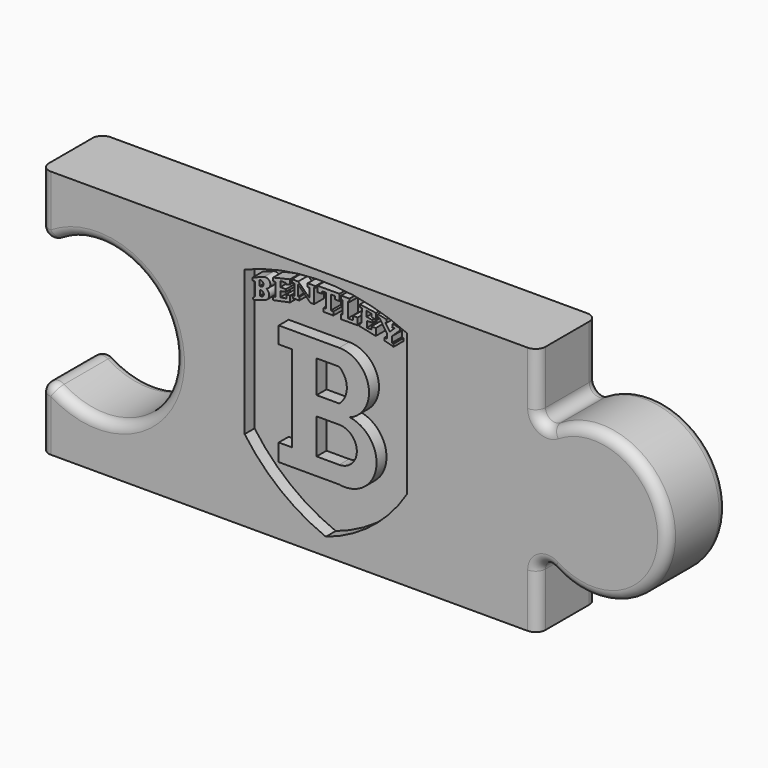
from build123d import *

# Parameters (mm, degrees)
F1_DEPTH = 38.1
F3_W     = 126.102865
F3_H     = 115.093618
F4_DEPTH = 31.75
F6_DEPTH = 6.35
F7_R     = 5.08
F8_R     = 5.08


with BuildPart() as f1:
    # F0 (on Front) → F1 (new body)
    with BuildSketch(Plane.XZ):
        with BuildLine():
            Line((463.192274, -174.77218), (209.192274, -174.77218))
            Line((209.192274, -174.77218), (209.192274, -211.85618))
            ThreePointArc((209.192274, -211.85618), (277.52273, -238.52618), (209.192274, -265.19618))
            Line((209.192274, -265.19618), (209.192274, -302.28018))
            Line((209.192274, -302.28018), (463.192274, -302.28018))
            Line((463.192274, -302.28018), (463.192274, -263.92618))
            ThreePointArc((463.192274, -263.92618), (529.690338, -238.52618), (463.192274, -213.12618))
            Line((463.192274, -213.12618), (463.192274, -174.77218))
        make_face()
        with BuildLine():
            Line((313.375966, -260.759609), (313.375966, -186.65828))
            ThreePointArc((313.375966, -186.65828), (355.063778, -178.968361), (396.411865, -188.314172))
            Line((396.411865, -188.314172), (396.411865, -260.759609))
            ThreePointArc((396.411865, -260.759609), (378.578901, -280.826187), (354.893916, -293.463575))
            ThreePointArc((354.893916, -293.463575), (331.775619, -280.10677), (313.375966, -260.759609))
        make_face(mode=Mode.SUBTRACT)
    extrude(amount=F1_DEPTH)

    # F3 (on face) → F4 (join)
    with BuildSketch(Plane.XZ):
        with Locations((346.876324, -236.12158)):
            Rectangle(F3_W, F3_H)
    extrude(amount=F4_DEPTH)

    # F5 (on face) → F6 (join)
    with BuildSketch(Plane.XZ.offset(31.75)):
        with BuildLine():
            Line((361.730725, -206.16582), (330.822527, -206.16582))
            Line((330.822527, -206.16582), (330.822527, -214.678064))
            Line((330.822527, -214.678064), (337.542742, -214.678064))
            Line((337.542742, -214.678064), (337.542742, -258.849293))
            Line((337.542742, -258.849293), (330.822527, -258.849293))
            Line((330.822527, -258.849293), (330.822527, -267.706871))
            Line((330.822527, -267.706871), (361.730725, -267.706871))
            ThreePointArc((361.730725, -267.706871), (380.620955, -254.446567), (367.181569, -235.683322))
            ThreePointArc((367.181569, -235.683322), (376.739011, -218.656358), (361.730725, -206.16582))
        make_face()
        with BuildLine():
            Line((350.147754, -258.849293), (350.147754, -240.793452))
            Line((350.147754, -240.793452), (361.730725, -240.793452))
            ThreePointArc((361.730725, -240.793452), (370.758645, -249.821372), (361.730725, -258.849293))
            Line((361.730725, -258.849293), (350.147754, -258.849293))
        make_face(mode=Mode.SUBTRACT)
        with BuildLine():
            Line((350.147754, -231.254533), (350.147754, -214.678064))
            Line((350.147754, -214.678064), (361.730725, -214.678064))
            ThreePointArc((361.730725, -214.678064), (365.654232, -222.966298), (361.730725, -231.254533))
            Line((361.730725, -231.254533), (350.147754, -231.254533))
        make_face(mode=Mode.SUBTRACT)
        with BuildLine():
            Line((323.194981, -186.804071), (317.461759, -188.922867))
            Line((317.461759, -188.922867), (317.461759, -190.293849))
            Line((317.461759, -190.293849), (318.708122, -190.293849))
            Line((318.708122, -190.293849), (318.708122, -197.024122))
            Line((318.708122, -197.024122), (317.461759, -198.145837))
            Line((317.461759, -198.145837), (318.137264, -198.896406))
            Line((318.137264, -198.896406), (323.818147, -197.024122))
            ThreePointArc((323.818147, -197.024122), (325.885852, -194.481716), (324.441314, -191.540197))
            ThreePointArc((324.441314, -191.540197), (326.426971, -188.48561), (323.194981, -186.804071))
        make_face()
        with BuildLine():
            Line((321.26677, -195.837215), (321.26677, -193.409994))
            ThreePointArc((321.26677, -193.409994), (323.175692, -194.623604), (321.26677, -195.837215))
        make_face(mode=Mode.SUBTRACT)
        with BuildLine():
            Line((321.090877, -191.545621), (321.090877, -188.90734))
            ThreePointArc((321.090877, -188.90734), (323.049141, -190.22648), (321.090877, -191.545621))
        make_face(mode=Mode.SUBTRACT)
        Polygon((336.607426, -183.512345), (327.923059, -185.544863), (327.923059, -187.115446), (329.21648, -187.115446), (329.21648, -193.952084), (327.923059, -193.952084), (327.923059, -195.70744), (336.607426, -193.952084), (336.546987, -190.871984), (334.779779, -190.871984), (334.779779, -192.788765), (331.622729, -193.239778), (331.622729, -190.420985), (334.461093, -189.857215), (334.461093, -188.673332), (331.622729, -188.673332), (331.622729, -186.65828), (331.622729, -185.822025), (334.507903, -185.822025), (334.507903, -186.65828), (336.607426, -185.822025), align=None)
        Polygon((340.765774, -183.15503), (337.550521, -183.119908), (337.550521, -184.667185), (338.921288, -184.667185), (338.921288, -190.244921), (337.782307, -190.244921), (338.084729, -191.537083), (341.323355, -191.537083), (341.323355, -189.927005), (340.712914, -189.927005), (340.712914, -184.451603), (346.98681, -190.725498), (348.868976, -190.725498), (348.868976, -183.15503), (349.606276, -183.15503), (349.606276, -182.356536), (345.613778, -182.356536), (345.613778, -184.067592), (346.583396, -184.067592), (346.583396, -188.7445), align=None)
        Polygon((350.598305, -181.823596), (350.598305, -182.341114), (350.598305, -184.740469), (352.950603, -184.740469), (352.950603, -183.56432), (354.879498, -183.56432), (354.879498, -190.762386), (353.797436, -190.762386), (353.797436, -192.597196), (358.784348, -192.597196), (358.784348, -190.762386), (357.467055, -190.762386), (357.467055, -183.56432), (359.490037, -183.56432), (359.490037, -185.116842), (361.889392, -185.116842), (361.889392, -181.823596), align=None)
        Polygon((363.503575, -184.047222), (363.503575, -190.762386), (362.710297, -190.762386), (362.710297, -193.02398), (371.144265, -193.02398), (371.144265, -189.47503), (368.806124, -189.47503), (368.806124, -191.479146), (366.175741, -191.479146), (366.175741, -183.880225), (367.010772, -183.880225), (367.010772, -182.341114), (362.710297, -182.341114), (362.710297, -184.047222), align=None)
        Polygon((373.012722, -191.253856), (373.012722, -191.73333), (372.173637, -191.73333), (372.173637, -193.051875), (380.444586, -194.789976), (380.444586, -191.193908), (378.227025, -191.193908), (378.227025, -192.5724), (375.829637, -192.5724), (375.829637, -189.39589), (378.646553, -189.39589), (378.646553, -188.197196), (375.769705, -187.657788), (375.769705, -184.900805), (378.34689, -185.560077), (378.34689, -186.938569), (380.564451, -187.477976), (380.564451, -184.361398), (372.353435, -183.162704), (372.353435, -184.481263), (373.372346, -184.481263), align=None)
        Polygon((381.583363, -184.601128), (381.283671, -186.039552), (382.302552, -186.039552), (386.13835, -191.73333), (386.13835, -194.130704), (384.819806, -194.130704), (384.819806, -195.38933), (389.55462, -196.707889), (389.55462, -195.329398), (388.775468, -195.089653), (388.715535, -192.212805), (392.131805, -188.856468), (392.791092, -188.856468), (392.791092, -187.298179), (389.135092, -186.459094), (388.8354, -188.197196), (389.974177, -188.197196), (387.636721, -190.534636), (385.239363, -186.938569), (386.13835, -186.938569), (385.958552, -185.500145), align=None)
    extrude(amount=F6_DEPTH)

    # F7
    f7_edges = [f1.edges().sort_by_distance(p)[0] for p in [
        (277.52273, -38.1, -238.52618),
        (209.192274, -38.1, -193.31418),
        (209.192274, -38.1, -283.73818),
        (209.192274, -19.05, -211.85618),
        (209.192274, -19.05, -265.19618),
        (209.192274, 0, -193.31418),
        (209.192274, 0, -283.73818),
        (277.52273, 0, -238.52618),
    ]]
    fillet(f7_edges, radius=F7_R)

    # F8
    f8_edges = [f1.edges().sort_by_distance(p)[0] for p in [
        (529.690338, -38.1, -238.52618),
        (463.192274, -38.1, -193.94918),
        (463.192274, 0, -193.94918),
        (463.192274, -38.1, -283.10318),
        (463.192274, 0, -283.10318),
        (463.192274, -19.05, -213.12618),
        (529.690338, 0, -238.52618),
        (463.192274, -19.05, -263.92618),
    ]]
    fillet(f8_edges, radius=F8_R)


solid = f1.part
